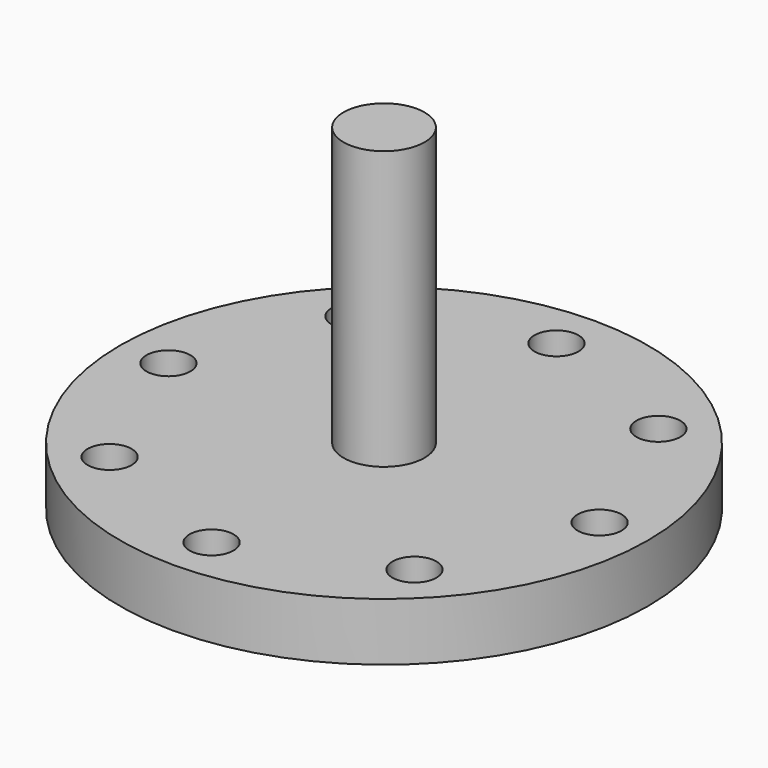
from build123d import *

# Parameters (mm, degrees)
F0_R     = 114
F0_R_2   = 9.5
F1_DEPTH = 25
F2_R     = 17.5
F3_DEPTH = 120


with BuildPart() as f1:
    # F0 (on Top) → F1 (new body)
    with BuildSketch(Plane.XY):
        Circle(F0_R)
        with Locations((-65.82822, -65.82822)):
            Circle(F0_R_2, mode=Mode.SUBTRACT)
        with Locations((0, -93.095161)):
            Circle(F0_R_2, mode=Mode.SUBTRACT)
        with Locations((65.82822, -65.82822)):
            Circle(F0_R_2, mode=Mode.SUBTRACT)
        with Locations((-93.095161, 0)):
            Circle(F0_R_2, mode=Mode.SUBTRACT)
        with Locations((-65.82822, 65.82822)):
            Circle(F0_R_2, mode=Mode.SUBTRACT)
        with Locations((93.095161, 0)):
            Circle(F0_R_2, mode=Mode.SUBTRACT)
        with Locations((0, 93.095161)):
            Circle(F0_R_2, mode=Mode.SUBTRACT)
        with Locations((65.82822, 65.82822)):
            Circle(F0_R_2, mode=Mode.SUBTRACT)
    extrude(amount=F1_DEPTH)

    # F2 (on face) → F3 (join)
    with BuildSketch(Plane.XY.offset(25)):
        Circle(F2_R)
    extrude(amount=F3_DEPTH)


solid = f1.part
